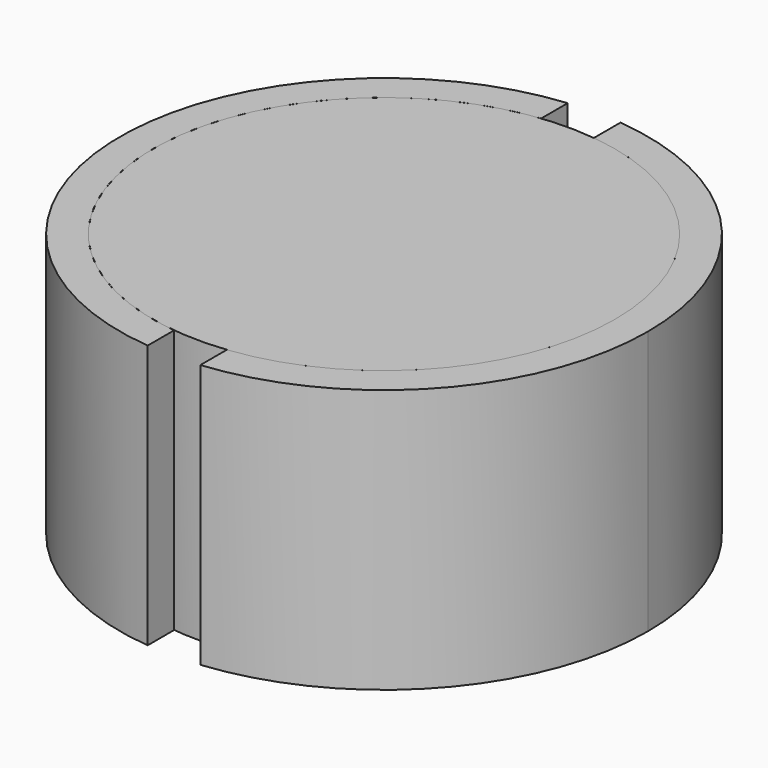
from build123d import *

# Parameters (mm, degrees)
F1_DEPTH = 25.4
F2_R     = 22.225
F3_DEPTH = 25.4


with BuildPart() as f1:
    # F0 (on Top) → F1 (new body)
    with BuildSketch(Plane.XY):
        with BuildLine():
            Line((-2.536823, 22.079745), (-2.536823, 25.273))
            ThreePointArc((-2.536823, 25.273), (-25.4, -0.000489), (-2.53585, -25.273098))
            Line((-2.53585, -25.273098), (-2.53585, -22.079857))
            ThreePointArc((-2.53585, -22.079857), (-22.225, -0.00049), (-2.536823, 22.079745))
        make_face()
        with BuildLine():
            ThreePointArc((2.53585, -25.273098), (18.835745, -17.040385), (25.4, 0))
            ThreePointArc((25.4, 0), (18.836073, 17.040022), (2.536823, 25.273))
            Line((2.536823, 25.273), (2.536823, 22.079745))
            ThreePointArc((2.536823, 22.079745), (16.588121, 14.791378), (22.225, 0))
            ThreePointArc((22.225, 0), (16.587795, -14.791744), (2.53585, -22.079857))
            Line((2.53585, -22.079857), (2.53585, -25.273098))
        make_face()
    extrude(amount=F1_DEPTH)


with BuildPart() as f3:
    # F2 (on Top) → F3 (new body)
    with BuildSketch(Plane.XY):
        Circle(F2_R)
    extrude(amount=F3_DEPTH)


solid = Compound([f1.part, f3.part])
